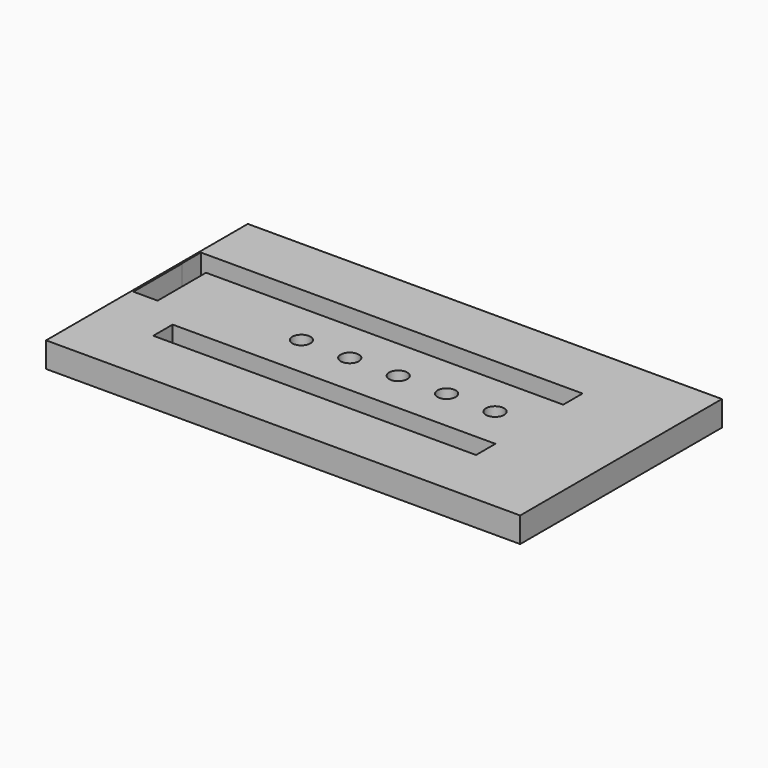
from build123d import *

# Parameters (mm, degrees)
F0_W     = 11938
F0_H     = 6350
F0_W_2   = 8128
F0_H_2   = 609.6
F1_DEPTH = 609.6
F2_R     = 228.6
F3_DEPTH = 609.601
F4_W     = 11938
F4_H     = 6350
F5_DEPTH = 25.4


with BuildPart() as f1:
    # F0 (on Top) → F1 (new body)
    with BuildSketch(Plane.XY):
        with Locations((838.2, 29.609966)):
            Rectangle(F0_W, F0_H)
        with Locations((457.2, -1371.6)):
            Rectangle(F0_W_2, F0_H_2, mode=Mode.SUBTRACT)
        Polygon((4521.2, 1066.8), (-3606.8, 1066.8), (-3606.8, 1067.644954), (-4473.713942, 1067.644954), (-4473.713942, -456.355046), (-5083.313942, -456.355046), (-5083.313942, 1067.644954), (-5091.777325, 1067.644954), (-5091.777325, 1676.4), (-3606.8, 1676.4), (4521.2, 1676.4), align=None, mode=Mode.SUBTRACT)
    extrude(amount=-F1_DEPTH)

    # F2 (on face) → F3 (cut, through all)
    with BuildSketch(Plane.XY):
        Circle(F2_R)
        with Locations((-1219.2, 0)):
            Circle(F2_R)
        with Locations((1219.2, 0)):
            Circle(F2_R)
        with Locations((2438.4, 0)):
            Circle(F2_R)
        with Locations((3657.6, 0)):
            Circle(F2_R)
    extrude(amount=-F3_DEPTH, mode=Mode.SUBTRACT)

    # F4 (on face) → F5 (join)
    with BuildSketch(Plane(origin=(0, 0, -609.6), x_dir=(1, 0, 0), z_dir=(0, 0, -1))):
        with Locations((838.2, -29.609966)):
            Rectangle(F4_W, F4_H)
    extrude(amount=F5_DEPTH)


solid = f1.part
